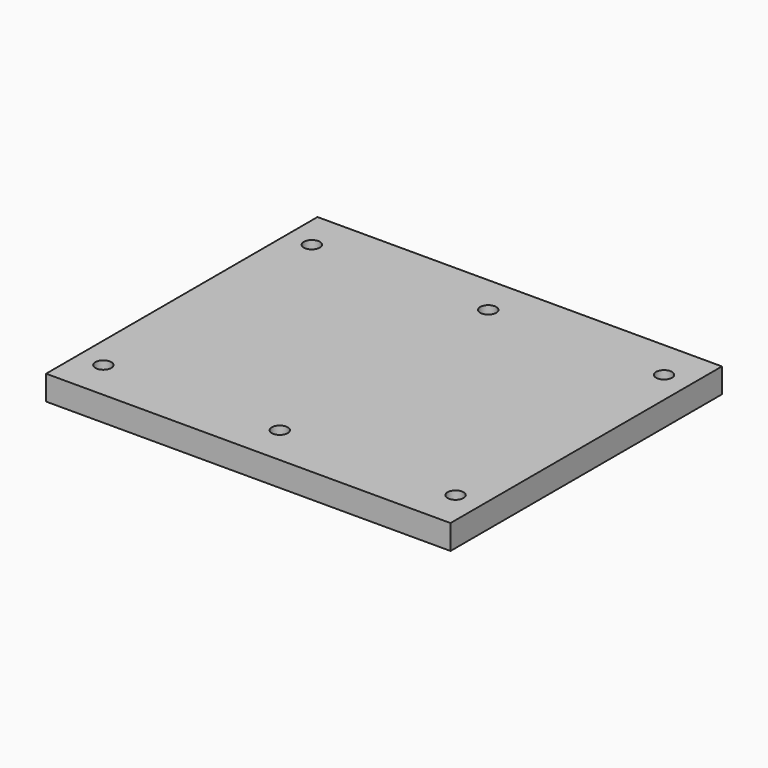
from build123d import *

# Parameters (mm, degrees)
F0_W     = 164.5
F0_H     = 138
F1_DEPTH = 10
F2_R     = 3.25
F3_DEPTH = 25


with BuildPart() as f1:
    # F0 (on Top) → F1 (new body)
    with BuildSketch(Plane.XY):
        with Locations((82.25, -69)):
            Rectangle(F0_W, F0_H)
    extrude(amount=F1_DEPTH)

    # F2 (on face) → F3 (cut)
    with BuildSketch(Plane.XY.offset(10)):
        with Locations((153.75, -122)):
            Circle(F2_R)
        with Locations((153.75, -16)):
            Circle(F2_R)
        with Locations((82.25, -16)):
            Circle(F2_R)
        with Locations((10.5, -16)):
            Circle(F2_R)
        with Locations((82.25, -122)):
            Circle(F2_R)
        with Locations((10.5, -122)):
            Circle(F2_R)
    extrude(amount=-F3_DEPTH, mode=Mode.SUBTRACT)


solid = f1.part
